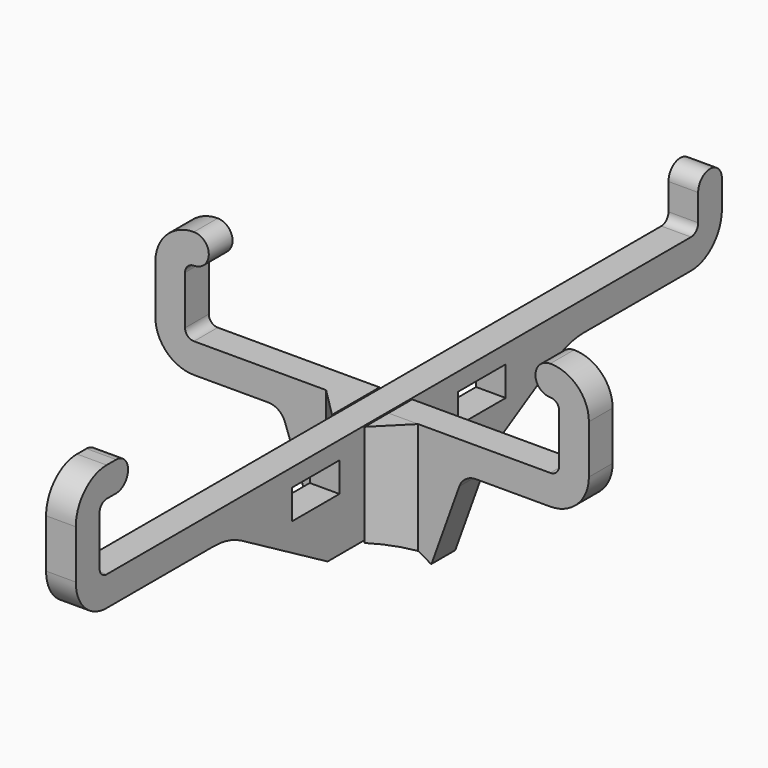
from build123d import *

# Parameters (mm, degrees)
SKETCH_W     = 10
SKETCH_H     = 5
PAD_DEPTH    = 2.5
PAD001_DEPTH = 2.5
PAD002_DEPTH = 20
POCKET_DEPTH = 10


with BuildPart() as vertical:
    # Sketch → Pad (new body, symmetric)
    with BuildSketch(Plane.YZ):
        with BuildLine():
            Line((68, 18.5), (68, 23.000002))
            ThreePointArc((68, 23.000002), (65.499999, 25.500002), (63, 23))
            Line((63, 18.500002), (63, 23))
            ThreePointArc((61.500001, 17), (62.560661, 17.439341), (63, 18.500002))
            Line((-61.500001, 17), (61.500001, 17))
            ThreePointArc((-63, 18.500002), (-62.560661, 17.439341), (-61.500001, 17))
            Line((-63, 26.699998), (-63, 18.500002))
            ThreePointArc((-61.5, 28.2), (-62.560661, 27.760659), (-63, 26.699998))
            Line((-61.5, 28.2), (-59.5, 28.2))
            ThreePointArc((-59.5, 28.2), (-57.000001, 30.7), (-59.500001, 33.2))
            Line((-59.500001, 33.2), (-61.499999, 33.2))
            ThreePointArc((-61.499999, 33.2), (-66.096194, 31.296194), (-68, 26.7))
            Line((-68, 18.500002), (-68, 26.7))
            ThreePointArc((-68, 18.500002), (-66.096195, 13.903807), (-61.500001, 12))
            Line((-61.500001, 12), (-38.960771, 12))
            ThreePointArc((-33, 10.392302), (-35.873886, 11.591015), (-38.960771, 12))
            Line((-15, 0), (-33, 10.392302))
            Line((-15, 0), (-2.75, 0))
            Line((-2.75, 0), (-2.75, 8.7))
            Line((-2.75, 8.7), (2.75, 8.7))
            Line((2.75, 8.7), (2.75, 0))
            Line((2.75, 0), (15, 0))
            Line((15, 0), (33, 10.392302))
            ThreePointArc((38.960771, 12), (35.873886, 11.591015), (33, 10.392302))
            Line((38.960771, 12), (61.5, 12))
            ThreePointArc((61.5, 12), (66.096194, 13.903806), (68, 18.5))
        make_face()
        with Locations((-17.5, 11.5)):
            Rectangle(SKETCH_W, SKETCH_H, mode=Mode.SUBTRACT)
        with Locations((17.5, 11.5)):
            Rectangle(SKETCH_W, SKETCH_H, mode=Mode.SUBTRACT)
    extrude(amount=PAD_DEPTH, both=True)


with BuildPart() as fusion:
    # Sketch001 → Pad001 (new body, symmetric)
    with BuildSketch(Plane.XZ):
        with BuildLine():
            Line((17.5, 11.999985), (30.00001, 12))
            ThreePointArc((30.00001, 12), (34.596197, 13.903808), (36.5, 18.499997))
            Line((36.5, 26.699975), (36.5, 18.499997))
            ThreePointArc((36.5, 26.699975), (34.596194, 31.296166), (30.000002, 33.199972))
            ThreePointArc((30.000002, 33.199972), (27.500002, 30.699972), (30.000002, 28.199972))
            ThreePointArc((31.5, 26.699975), (31.06066, 27.760632), (30.000002, 28.199972))
            Line((31.5, 18.499997), (31.5, 26.699975))
            ThreePointArc((30.000002, 17), (31.06066, 17.43934), (31.5, 18.499997))
            Line((2.75, 17), (30.000002, 17))
            Line((2.75, 8.3), (2.75, 17))
            Line((-2.75, 8.3), (2.75, 8.3))
            Line((-2.75, 16.999985), (-2.75, 8.3))
            Line((-30, 16.999985), (-2.75, 16.999985))
            ThreePointArc((-31.5, 18.499997), (-31.060664, 17.439329), (-30, 16.999985))
            Line((-31.5, 18.499997), (-31.5, 26.699975))
            ThreePointArc((-30.000002, 28.199985), (-31.060665, 27.760641), (-31.5, 26.699975))
            ThreePointArc((-30.000002, 28.199985), (-27.500003, 30.699986), (-30.000003, 33.199985))
            ThreePointArc((-30.000003, 33.199985), (-34.596199, 31.296174), (-36.5, 26.699974))
            Line((-36.5, 26.699974), (-36.5, 18.499998))
            ThreePointArc((-36.5, 18.499998), (-34.596199, 13.903797), (-30.000002, 11.999985))
            Line((-30.000002, 11.999985), (-17.5, 11.999985))
            ThreePointArc((-14.676754, 10.014517), (-15.774254, 11.45392), (-17.5, 11.999985))
            Line((-14.676754, 10.014517), (-10, -3))
            Line((-10, -3), (10, -3))
            Line((10, -3), (14.676756, 10.014517))
            ThreePointArc((17.5, 11.999985), (15.774255, 11.453919), (14.676756, 10.014517))
        make_face()
    extrude(amount=PAD001_DEPTH, both=True)

    # Sketch002 → Pad002 (new body)
    with BuildSketch(Plane(origin=(0, 0, 16.999985), x_dir=(-1, 0, 0), z_dir=(0, 0, 1))):
        Polygon((-7.75, 2.5), (-2.75, 7.5), (-2.75, 2.5), align=None)
        Polygon((2.75, 7.5), (2.75, 2.5), (7.75, 2.5), align=None)
    extrude(amount=-PAD002_DEPTH)

    # Sketch003 → Pocket (cut)
    with BuildSketch(Plane(origin=(0, 2.5, 0), x_dir=(1, 0, 0), z_dir=(0, 1, 0))):
        with BuildLine():
            ThreePointArc((-10, 3.138593), (0, 0), (10, 3.138593))
            Line((-10, 3.138593), (10, 3.138593))
        make_face()
    extrude(amount=-POCKET_DEPTH, mode=Mode.SUBTRACT)

    # Fusion: union Vertical
    add(vertical.part)


solid = fusion.part
